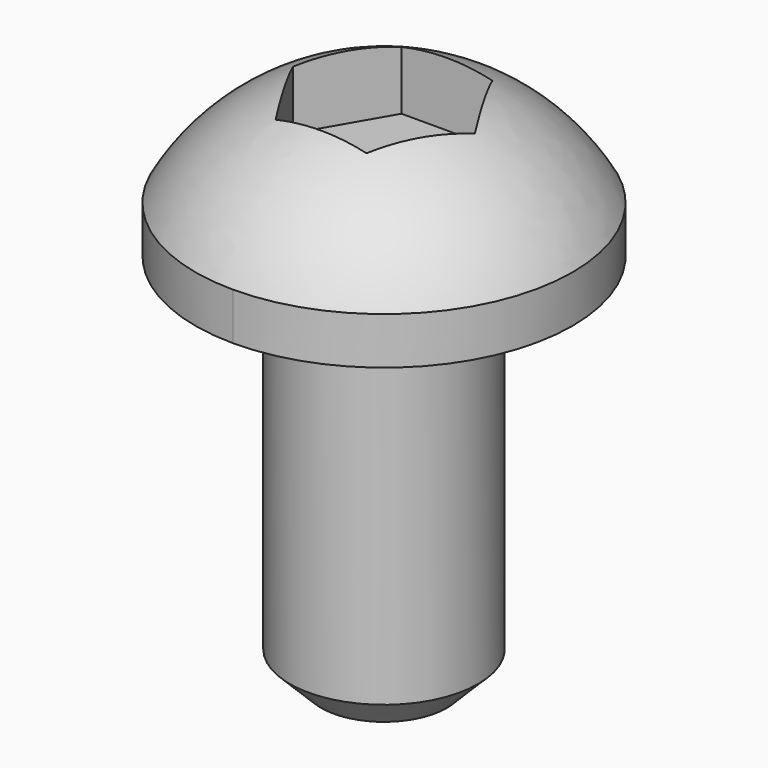
from build123d import *

# Parameters (mm, degrees)
PAD003_DEPTH        = 4
SKETCH_R            = 3
PAD_DEPTH           = 11
CHAMFER_SIZE        = 1
SKETCH001_R         = 2.5
PAD001_DEPTH        = 1
PAD002_DEPTH        = 1.5
SKETCH004_W         = 6
SKETCH004_H         = 1.5
REVOLUTION001_ANGLE = 270


with BuildPart() as pad003:
    # Sketch005 → Pad003 (new body)
    with BuildSketch(Plane.XY.offset(14.5)):
        Polygon((-2.89, 0), (-1.445, 2.502813), (1.445, 2.502813), (2.89, 0), (1.445, -2.502813), (-1.445, -2.502813), align=None)
    extrude(amount=PAD003_DEPTH)


with BuildPart() as cut:
    # Sketch → Pad (new body)
    with BuildSketch(Plane.XY):
        Circle(SKETCH_R)
    extrude(amount=PAD_DEPTH)

    # Chamfer
    chamfer_edges = [cut.edges().sort_by_distance(p)[0] for p in [
        (-3, 0, 0),
    ]]
    chamfer(chamfer_edges, length=CHAMFER_SIZE)

    # Sketch001 → Pad001 (new body)
    with BuildSketch(Plane.XY.offset(11)):
        Circle(SKETCH001_R)
    extrude(amount=PAD001_DEPTH)

    # Sketch002 → Pad002 (new body)
    with BuildSketch(Plane.XY.offset(12)):
        with BuildLine():
            ThreePointArc((-6, 0), (-4.242641, -4.242641), (0, -6))
            Line((0, 0), (0, -6))
            Line((0, 0), (-6, 0))
        make_face()
    extrude(amount=PAD002_DEPTH)

    # Sketch003 → Revolution (revolve)
    with BuildSketch(Plane.YZ):
        with BuildLine():
            ThreePointArc((0, 17.002951), (-3.473855, 16.063114), (-6, 13.5))
            Line((0, 13.5), (-6, 13.5))
            Line((0, 17.002951), (0, 13.5))
        make_face()
    revolve(axis=Axis((0, 0, 0), (0, 0, 1)))

    # Sketch004 → Revolution001 (revolve)
    with BuildSketch(Plane.YZ):
        with Locations((-3, 12.75)):
            Rectangle(SKETCH004_W, SKETCH004_H)
    revolve(axis=Axis((0, 0, 0), (0, 0, 1)), revolution_arc=REVOLUTION001_ANGLE)

    # Cut: cut Pad003
    add(pad003.part, mode=Mode.SUBTRACT)


solid = cut.part
